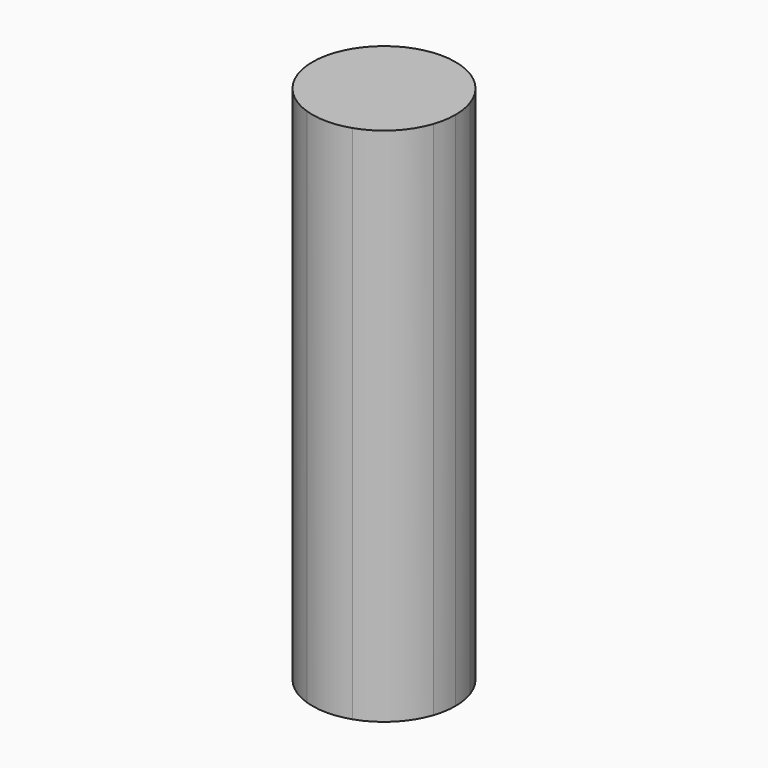
from build123d import *

# Parameters (mm, degrees)
F1_DEPTH = 46.0375


with BuildPart() as f1:
    # F0 (on Top) → F1 (new body)
    with BuildSketch(Plane.XY):
        with BuildLine():
            ThreePointArc((6, -2), (6.2428892318, -1.0130814572), (6.3245553203, 0))
            ThreePointArc((6.3245553203, 0), (6.2428892318, 1.0130814572), (6, 2))
            Line((6, 2), (6, -2))
        make_face()
        with BuildLine():
            Line((2, 2), (6, 2))
            ThreePointArc((6, 2), (4.472135955, 4.472135955), (2, 6))
            Line((2, 6), (2, 2))
        make_face()
        Polygon((6, -2), (6, 2), (2, 2), (2, 6), (-2, 6), (-2, 2), (-6, 2), (-6, -2), (-2, -2), (-2, -6), (2, -6), (2, -2), align=None)
        with BuildLine():
            ThreePointArc((2, -6), (4.472135955, -4.472135955), (6, -2))
            Line((6, -2), (2, -2))
            Line((2, -2), (2, -6))
        make_face()
        with BuildLine():
            Line((-2, 6), (2, 6))
            ThreePointArc((2, 6), (0, 6.3245553203), (-2, 6))
        make_face()
        with BuildLine():
            ThreePointArc((-2, -6), (0, -6.3245553203), (2, -6))
            Line((2, -6), (-2, -6))
        make_face()
        with BuildLine():
            Line((-2, 2), (-2, 6))
            ThreePointArc((-2, 6), (-4.472135955, 4.472135955), (-6, 2))
            Line((-6, 2), (-2, 2))
        make_face()
        with BuildLine():
            ThreePointArc((-6, -2), (-4.472135955, -4.472135955), (-2, -6))
            Line((-2, -6), (-2, -2))
            Line((-2, -2), (-6, -2))
        make_face()
        with BuildLine():
            Line((-6, -2), (-6, 2))
            ThreePointArc((-6, 2), (-6.3245553203, 0), (-6, -2))
        make_face()
    extrude(amount=F1_DEPTH)


solid = f1.part
